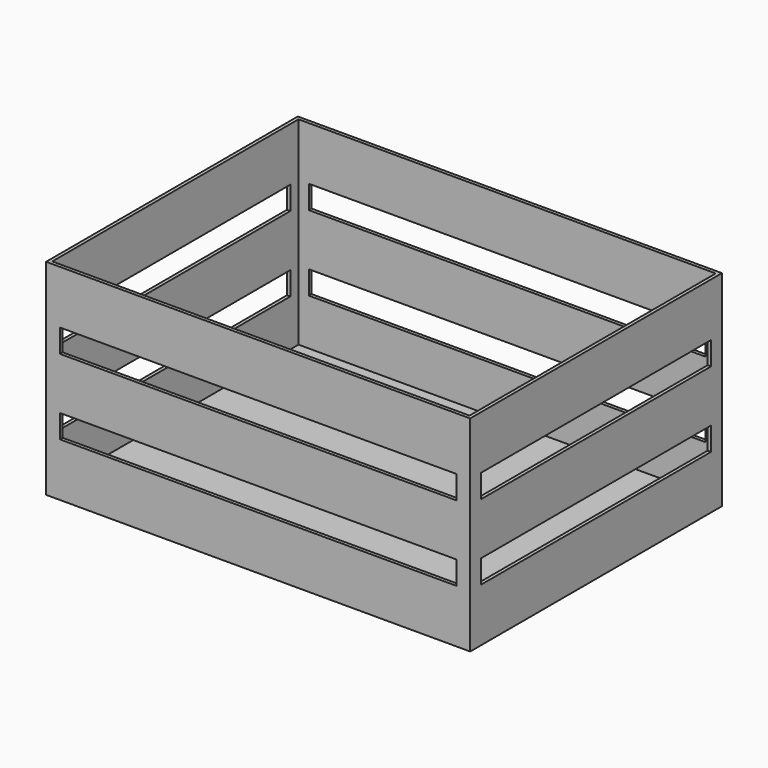
from build123d import *

# Parameters (mm, degrees)
F0_W     = 310
F0_H     = 230
F1_DEPTH = 5
F2_W     = 310
F2_H     = 230
F2_W_2   = 305
F2_H_2   = 225
F3_DEPTH = 150
F4_W     = 210
F4_H     = 17
F5_DEPTH = 310.001
F6_W     = 290
F6_H     = 17
F7_DEPTH = 230.001


with BuildPart() as f1:
    # F0 (on Top) → F1 (new body)
    with BuildSketch(Plane.XY):
        Rectangle(F0_W, F0_H)
    extrude(amount=F1_DEPTH)

    # F2 (on face) → F3 (join)
    with BuildSketch(Plane(origin=(0, 0, 0), x_dir=(1, 0, 0), z_dir=(0, 0, -1))):
        Rectangle(F2_W, F2_H)
        Rectangle(F2_W_2, F2_H_2, mode=Mode.SUBTRACT)
    extrude(amount=-F3_DEPTH)

    # F4 (on face) → F5 (cut, through all)
    with BuildSketch(Plane(origin=(-155, 0, 0), x_dir=(0, -1, 0), z_dir=(-1, 0, 0))):
        with Locations((0, 102.5)):
            Rectangle(F4_W, F4_H)
        with Locations((0, 47.5)):
            Rectangle(F4_W, F4_H)
    extrude(amount=-F5_DEPTH, mode=Mode.SUBTRACT)

    # F6 (on face) → F7 (cut, through all)
    with BuildSketch(Plane.XZ.offset(115)):
        with Locations((0, 102.5)):
            Rectangle(F6_W, F6_H)
        with Locations((0, 47.5)):
            Rectangle(F6_W, F6_H)
    extrude(amount=-F7_DEPTH, mode=Mode.SUBTRACT)


solid = f1.part
